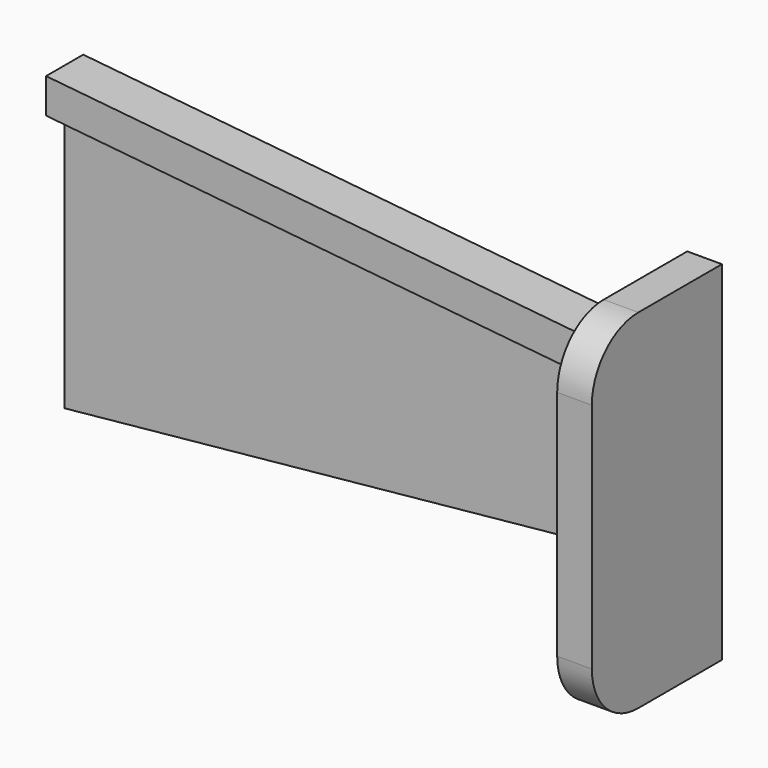
from build123d import *

# Parameters (mm, degrees)
F1_DEPTH = 2
F2_DEPTH = 14
F3_DEPTH = 4
F4_DEPTH = 14
F5_R     = 5


with BuildPart() as f1:
    # F0 (on Front) → F1 (new body)
    with BuildSketch(Plane.XZ):
        Polygon((26.906193, 0), (-25.108696, 0), (-25.108696, -13), (26.906193, -7.798511), align=None)
        Polygon((-25.108696, 10), (-25.108696, 0), (26.906193, 0), (26.906193, 4.798511), align=None)
    extrude(amount=F1_DEPTH)

    # F0 (on Front) → F2 (join)
    with BuildSketch(Plane.XZ):
        Polygon((26.906193, 4.798511), (26.906193, 0), (29.891304, 0), (29.891304, 15), (26.906193, 15), (26.906193, 7.798511), align=None)
    extrude(amount=F2_DEPTH)

    # F0 (on Front) → F3 (join)
    with BuildSketch(Plane.XZ):
        Polygon((-25.108696, 13), (-25.108696, 10), (26.906193, 4.798511), (26.906193, 7.798511), align=None)
    extrude(amount=F3_DEPTH)

    # F0 (on Front) → F4 (join)
    with BuildSketch(Plane.XZ):
        Polygon((29.891304, 0), (26.906193, 0), (26.906193, -7.798511), (26.906193, -15), (29.891304, -15), align=None)
    extrude(amount=F4_DEPTH)

    # F5
    f5_edges = [f1.edges().sort_by_distance(p)[0] for p in [
        (28.398748, -14, -15),
        (28.398748, -14, 15),
    ]]
    fillet(f5_edges, radius=F5_R)


solid = f1.part
